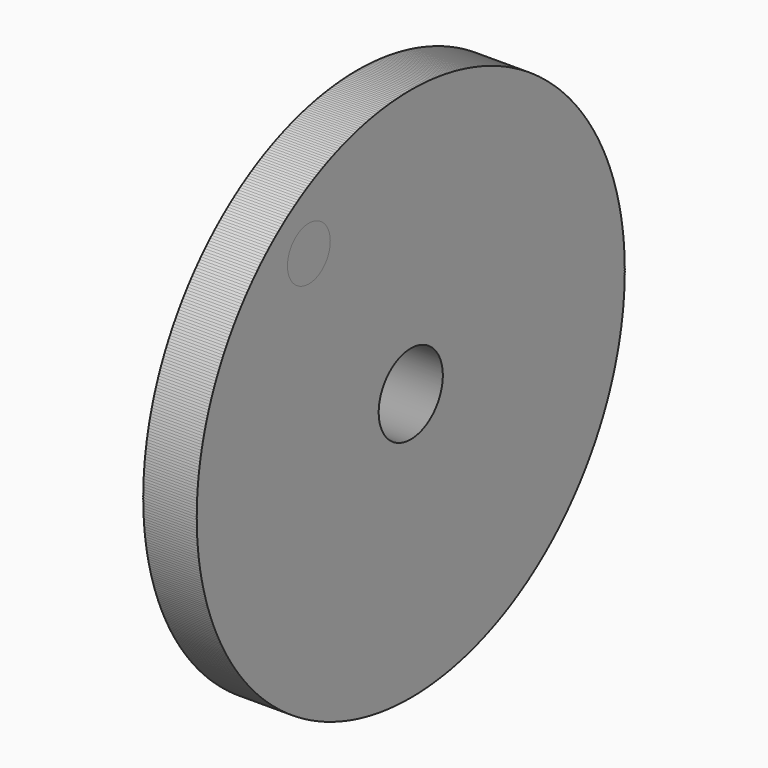
from build123d import *

# Parameters (mm, degrees)
F3_D     = 12.7
F4_COUNT = 10


with BuildPart() as f1:
    # F0 (on Front) → F1 (revolve)
    with BuildSketch(Plane.XZ):
        Polygon((0, 38.1), (0, 0), (-12.7, 0), (-12.7, -15.875), (12.7, -15.875), (12.7, 38.1), align=None)
    revolve(axis=Axis((-8.671735, 0, -25.4), (-1, 0, 0)))

    # F3 (through all)
    with Locations(Plane(origin=(-12.7, 0, 0), x_dir=(0, -1, 0), z_dir=(-1, 0, 0))):
        with Locations((0, 26.035)):
            Hole(F3_D / 2)


with BuildPart() as f4_1:
    # F4: instance of F1
    add(f1.part.rotate(Axis((-12.7, 0, -25.4), (-1, 0, 0)), 1 * 360 / F4_COUNT))


with BuildPart() as f4_2:
    # F4: instance of F1
    add(f1.part.rotate(Axis((-12.7, 0, -25.4), (-1, 0, 0)), 2 * 360 / F4_COUNT))


with BuildPart() as f4_3:
    # F4: instance of F1
    add(f1.part.rotate(Axis((-12.7, 0, -25.4), (-1, 0, 0)), 3 * 360 / F4_COUNT))


with BuildPart() as f4_4:
    # F4: instance of F1
    add(f1.part.rotate(Axis((-12.7, 0, -25.4), (-1, 0, 0)), 4 * 360 / F4_COUNT))


with BuildPart() as f4_5:
    # F4: instance of F1
    add(f1.part.rotate(Axis((-12.7, 0, -25.4), (-1, 0, 0)), 5 * 360 / F4_COUNT))


with BuildPart() as f4_6:
    # F4: instance of F1
    add(f1.part.rotate(Axis((-12.7, 0, -25.4), (-1, 0, 0)), 6 * 360 / F4_COUNT))


with BuildPart() as f4_7:
    # F4: instance of F1
    add(f1.part.rotate(Axis((-12.7, 0, -25.4), (-1, 0, 0)), 7 * 360 / F4_COUNT))


with BuildPart() as f4_8:
    # F4: instance of F1
    add(f1.part.rotate(Axis((-12.7, 0, -25.4), (-1, 0, 0)), 8 * 360 / F4_COUNT))


with BuildPart() as f4_9:
    # F4: instance of F1
    add(f1.part.rotate(Axis((-12.7, 0, -25.4), (-1, 0, 0)), 9 * 360 / F4_COUNT))


solid = Compound([f1.part, f4_1.part, f4_2.part, f4_3.part, f4_4.part, f4_5.part, f4_6.part, f4_7.part, f4_8.part, f4_9.part])
